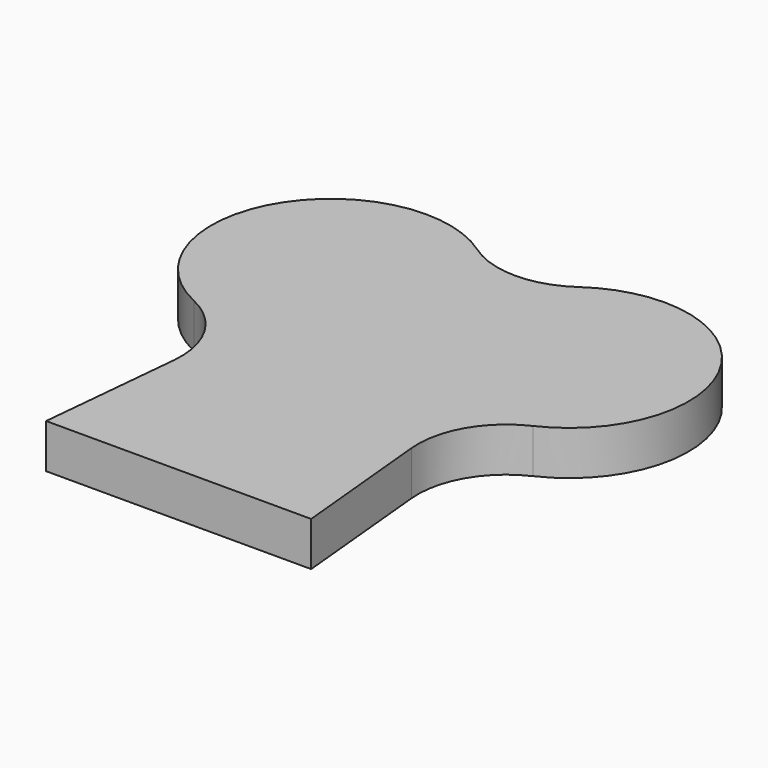
from build123d import *

# Parameters (mm, degrees)
PAD_DEPTH = 1


with BuildPart() as part:
    # Sketch → Pad (new body)
    with BuildSketch(Plane.XY):
        with BuildLine():
            Line((3, 0), (-3, 0))
            Line((-3, 0), (-2.687677, 3.257669))
            ThreePointArc((-2.687677, 3.257669), (-2.954386, 4.423147), (-3.838312, 5.228222))
            ThreePointArc((-1.148945, 9.886566), (-5.038297, 9.026488), (-3.838312, 5.228222))
            ThreePointArc((-1.148945, 9.886566), (-6e-06, 9.523614), (1.148936, 9.88656))
            ThreePointArc((3.838472, 5.228297), (5.03825, 9.02657), (1.148936, 9.88656))
            ThreePointArc((3.838472, 5.228297), (2.946118, 4.408497), (2.690913, 3.223914))
            Line((3, 0), (2.690913, 3.223914))
        make_face()
    extrude(amount=PAD_DEPTH)


solid = part.part
